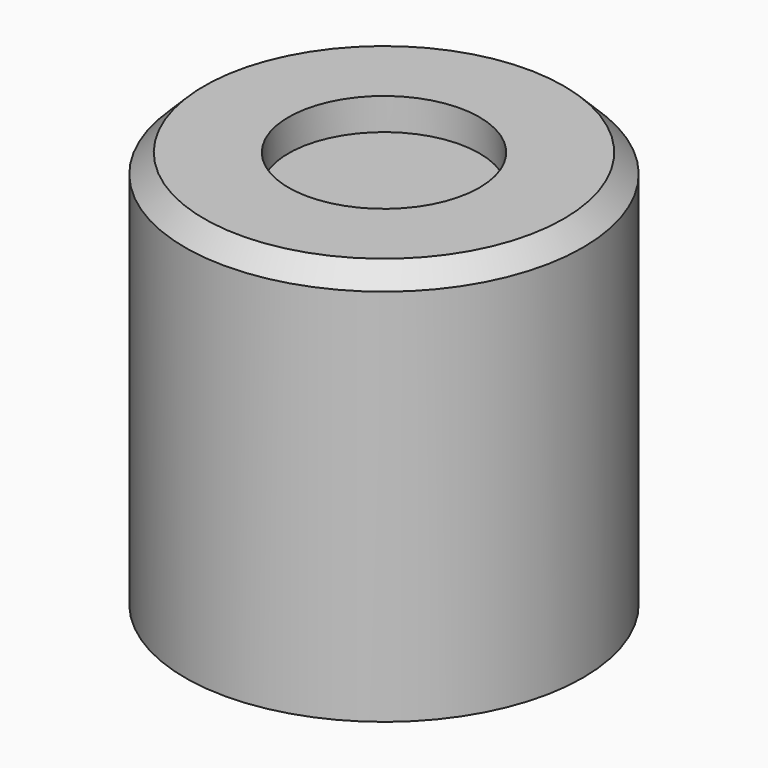
from build123d import *

# Parameters (mm, degrees)
F0_R     = 12.5
F1_DEPTH = 25
F2_R     = 6
F3_DEPTH = 2
F5_DEPTH = 10
F6_SIZE  = 1.2


with BuildPart() as f1:
    # F0 (on Top) → F1 (new body)
    with BuildSketch(Plane.XY):
        Circle(F0_R)
    extrude(amount=F1_DEPTH)

    # F2 (on face) → F3 (cut)
    with BuildSketch(Plane.XY.offset(25)):
        Circle(F2_R)
    extrude(amount=-F3_DEPTH, mode=Mode.SUBTRACT)

    # F4 (on face) → F5 (cut)
    with BuildSketch(Plane(origin=(0, 0, 0), x_dir=(1, 0, 0), z_dir=(0, 0, -1))):
        with BuildLine():
            ThreePointArc((-3.75, 0), (-5.5, 1.75), (-7.25, 0))
            Line((-7.25, 0), (-3.75, 0))
        make_face()
        with BuildLine():
            ThreePointArc((7.25, 0), (5.5, 1.75), (3.75, 0))
            Line((3.75, 0), (7.25, 0))
        make_face()
        with BuildLine():
            Line((7.25, 0), (3.75, 0))
            ThreePointArc((3.75, 0), (5.5, -1.75), (7.25, 0))
        make_face()
        with BuildLine():
            ThreePointArc((1.5, 0), (0, 1.5), (-1.5, 0))
            Line((-1.5, 0), (1.5, 0))
        make_face()
        with BuildLine():
            Line((1.5, 0), (-1.5, 0))
            ThreePointArc((-1.5, 0), (0, -1.5), (1.5, 0))
        make_face()
        with BuildLine():
            Line((-3.75, 0), (-7.25, 0))
            ThreePointArc((-7.25, 0), (-5.5, -1.75), (-3.75, 0))
        make_face()
    extrude(amount=-F5_DEPTH, mode=Mode.SUBTRACT)

    # F6
    f6_edges = [f1.edges().sort_by_distance(p)[0] for p in [
        (-12.5, 0, 25),
    ]]
    chamfer(f6_edges, length=F6_SIZE)


solid = f1.part
